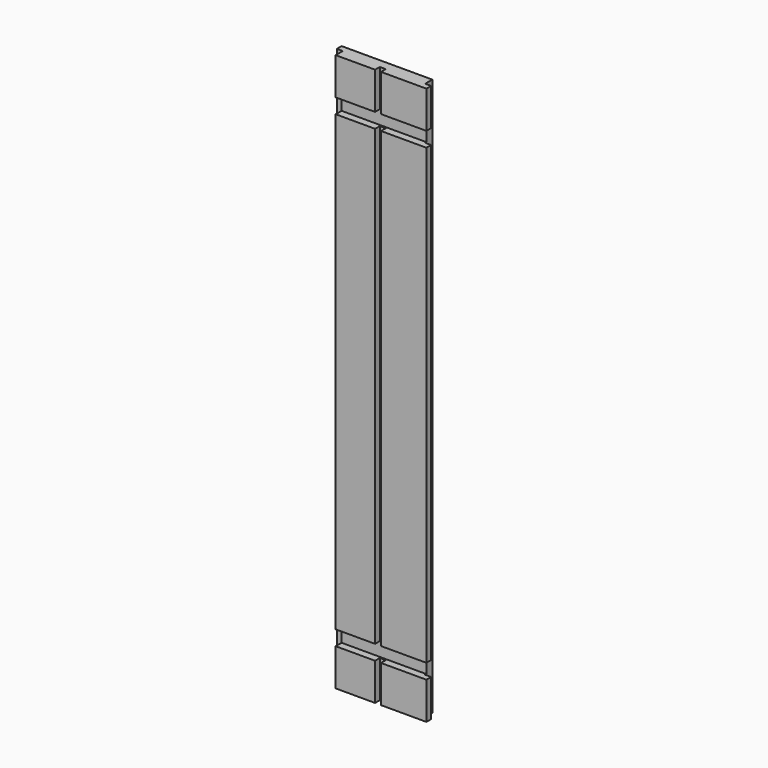
from build123d import *

# Parameters (mm, degrees)
F0_W     = 130
F0_H     = 750
F1_DEPTH = 20
F2_W     = 8
F2_H     = 750
F3_DEPTH = 8
F4_W     = 8
F4_H     = 1460
F5_DEPTH = 12
F6_W     = 8
F6_H     = 750
F7_DEPTH = 12
F8_W     = 10
F8_H     = 20
F9_DEPTH = 130


with BuildPart() as f1:
    # F0 (on Front) → F1 (new body)
    with BuildSketch(Plane.XZ):
        with Locations((-309.722924, 109.476302)):
            Rectangle(F0_W, F0_H)
    extrude(amount=-F1_DEPTH)

    # F2 (on face) → F3 (cut)
    with BuildSketch(Plane.XZ):
        with Locations((-309.722924, 109.476302)):
            Rectangle(F2_W, F2_H)
    extrude(amount=-F3_DEPTH, mode=Mode.SUBTRACT)

    # F4 (on face) → F5 (cut)
    with BuildSketch(Plane.XZ):
        with Locations((-370.722924, -245.523698)):
            Rectangle(F4_W, F4_H)
    extrude(amount=-F5_DEPTH, mode=Mode.SUBTRACT)

    # F6 (on face) → F7 (cut)
    with BuildSketch(Plane(origin=(0, 20, 0), x_dir=(-1, 0, 0), z_dir=(0, 1, 0))):
        with Locations((248.722924, 109.476302)):
            Rectangle(F6_W, F6_H)
    extrude(amount=-F7_DEPTH, mode=Mode.SUBTRACT)

    # F8 (on face) → F9 (cut)
    with BuildSketch(Plane(origin=(-366.722924, 0, 0), x_dir=(0, -1, 0), z_dir=(-1, 0, 0))):
        with Locations((-5, -205.523698)):
            Rectangle(F8_W, F8_H)
        with Locations((-5, 424.476302)):
            Rectangle(F8_W, F8_H)
    extrude(amount=-F9_DEPTH, mode=Mode.SUBTRACT)


solid = f1.part
